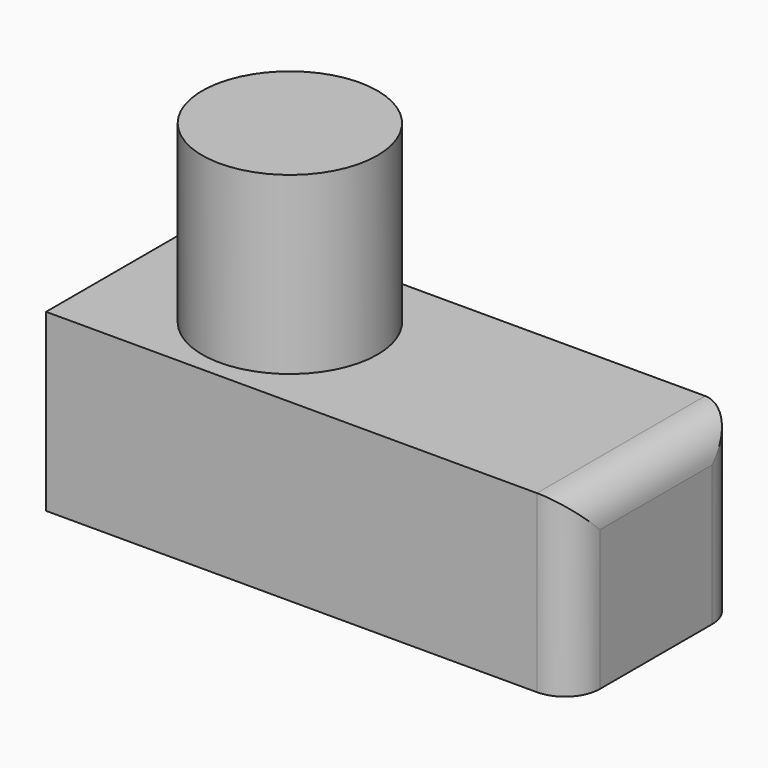
from build123d import *

# Parameters (mm, degrees)
F0_W     = 76.2
F0_H     = 30.48
F1_DEPTH = 25.4
F2_R     = 5.08
F4_R     = 12.7
F5_DEPTH = 25.4


with BuildPart() as f1:
    # F0 (on Top) → F1 (new body)
    with BuildSketch(Plane.XY):
        Rectangle(F0_W, F0_H)
    extrude(amount=F1_DEPTH)

    # F2
    f2_edges = [f1.edges().sort_by_distance(p)[0] for p in [
        (38.1, 0, 25.4),
        (38.1, -15.24, 12.7),
        (38.1, 15.24, 12.7),
    ]]
    fillet(f2_edges, radius=F2_R)

    # F4 (on face) → F5 (join)
    with BuildSketch(Plane.XY.offset(25.4)):
        with Locations((-14.963861, 0)):
            Circle(F4_R)
    extrude(amount=F5_DEPTH)


solid = f1.part
